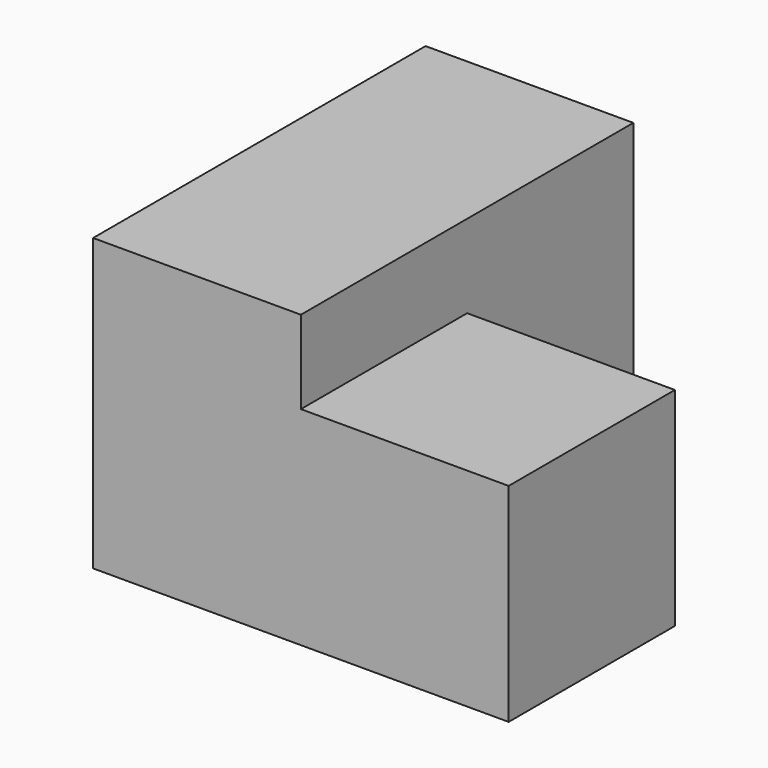
from build123d import *

# Parameters (mm, degrees)
BOX001_W     = 10
BOX001_H     = 10
BOX001_DEPTH = 10
BOX_W        = 10
BOX_H        = 20
BOX_DEPTH    = 14


with BuildPart() as box001:
    # Box001 → Box001 (new body)
    with BuildSketch(Plane(origin=(10, 0, 0), x_dir=(1, 0, 0), z_dir=(0, 0, 1))):
        with Locations((5, 5)):
            Rectangle(BOX001_W, BOX001_H)
    extrude(amount=BOX001_DEPTH)


with BuildPart() as fusion:
    # Box → Box (new body)
    with BuildSketch(Plane.XY):
        with Locations((5, 10)):
            Rectangle(BOX_W, BOX_H)
    extrude(amount=BOX_DEPTH)

    # Fusion: union Box001
    add(box001.part)


solid = fusion.part
